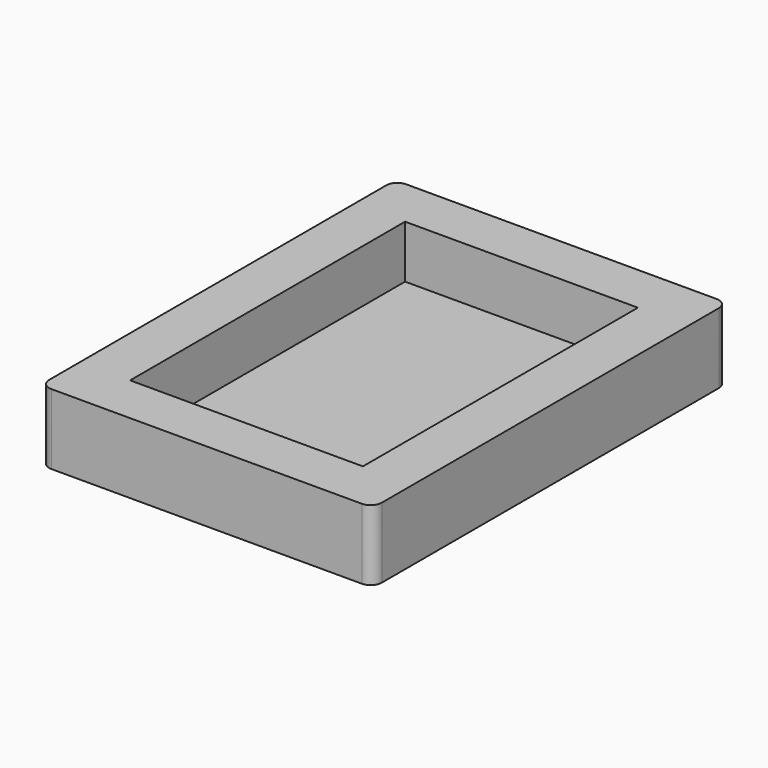
from build123d import *

# Parameters (mm, degrees)
F1_DEPTH = 12.7
F0_W     = 42
F0_H     = 62
F0_W_2   = 40
F0_H_2   = 60
F2_DEPTH = 3.175


with BuildPart() as f1:
    # F0 (on Top) → F1 (new body)
    with BuildSketch(Plane.XY):
        with BuildLine():
            Line((0, 78), (0, 9))
            Line((0, 9), (9, 9))
            Line((9, 9), (9, 71))
            Line((9, 71), (9, 80))
            Line((9, 80), (2, 80))
            ThreePointArc((2, 80), (0.585786, 79.414214), (0, 78))
        make_face()
        with BuildLine():
            Line((9, 71), (51, 71))
            Line((51, 71), (60, 71))
            Line((60, 71), (60, 78))
            ThreePointArc((60, 78), (59.414214, 79.414214), (58, 80))
            Line((58, 80), (9, 80))
            Line((9, 80), (9, 71))
        make_face()
        with BuildLine():
            Line((51, 9), (51, 0))
            Line((51, 0), (58, 0))
            ThreePointArc((58, 0), (59.414214, 0.585786), (60, 2))
            Line((60, 2), (60, 71))
            Line((60, 71), (51, 71))
            Line((51, 71), (51, 9))
        make_face()
        with BuildLine():
            ThreePointArc((0, 2), (0.585786, 0.585786), (2, 0))
            Line((2, 0), (51, 0))
            Line((51, 0), (51, 9))
            Line((51, 9), (9, 9))
            Line((9, 9), (0, 9))
            Line((0, 9), (0, 2))
        make_face()
    extrude(amount=F1_DEPTH)

    # F0 (on Top) → F2 (join)
    with BuildSketch(Plane.XY):
        with Locations((30, 40)):
            Rectangle(F0_W, F0_H)
        with Locations((30, 40)):
            Rectangle(F0_W_2, F0_H_2, mode=Mode.SUBTRACT)
        with Locations((30, 40)):
            Rectangle(F0_W_2, F0_H_2)
    extrude(amount=F2_DEPTH)


solid = f1.part
